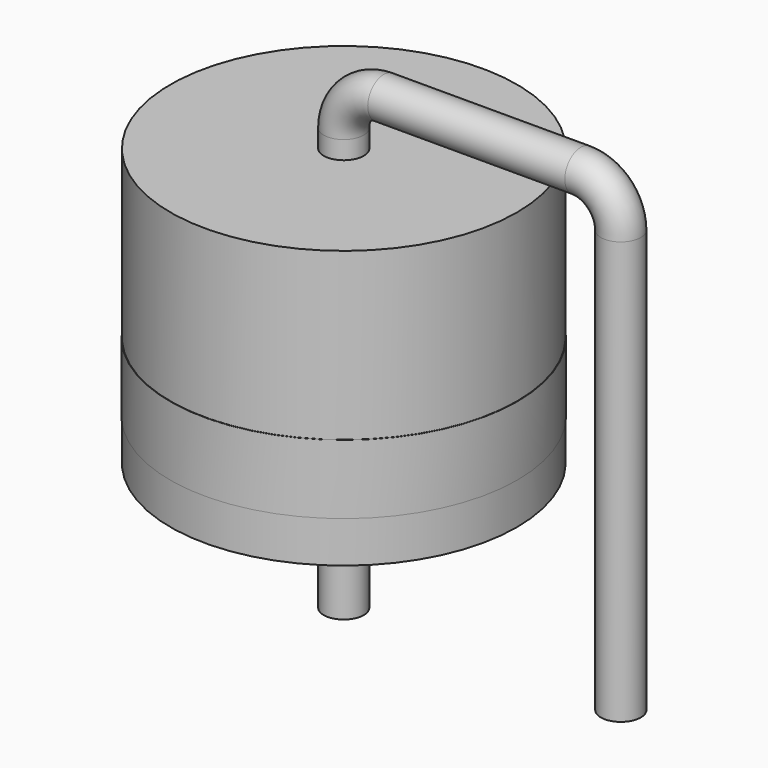
from build123d import *

# Parameters (mm, degrees)
SKETCH001_R = 0.55
SKETCH002_W = 4.765
SKETCH002_H = 7.62
SKETCH003_W = 4.775
SKETCH003_H = 1.905


with BuildPart() as sweep_body:
    # Sweep: sweep along a path in Sketch
    with BuildLine(Plane.XZ) as sweep_path:
        Line((0, -3), (0, 8.62))
        ThreePointArc((0, 8.62), (0.322183, 9.397817), (1.1, 9.72))
        Line((1.1, 9.72), (6.52, 9.72))
        ThreePointArc((6.52, 9.72), (7.297817, 9.397817), (7.62, 8.62))
        Line((7.62, 8.62), (7.62, -3))
    # Sketch001 → Sweep (sweep)
    with BuildSketch(Plane.XY):
        Circle(SKETCH001_R)
    sweep(path=sweep_path.line)


with BuildPart() as revolution:
    # Sketch002 → Revolution (revolve)
    with BuildSketch(Plane.XZ):
        with Locations((2.3825, 4.31)):
            Rectangle(SKETCH002_W, SKETCH002_H)
    revolve(axis=Axis((0, 0, 0.5), (0, 0, 1)))


with BuildPart() as revolution001:
    # Sketch003 → Revolution001 (revolve)
    with BuildSketch(Plane.XZ):
        with Locations((2.3875, 2.5955)):
            Rectangle(SKETCH003_W, SKETCH003_H)
    revolve(axis=Axis((0, 0, 0), (0, 0, 1)))


solid = Compound([sweep_body.part, revolution.part, revolution001.part])
